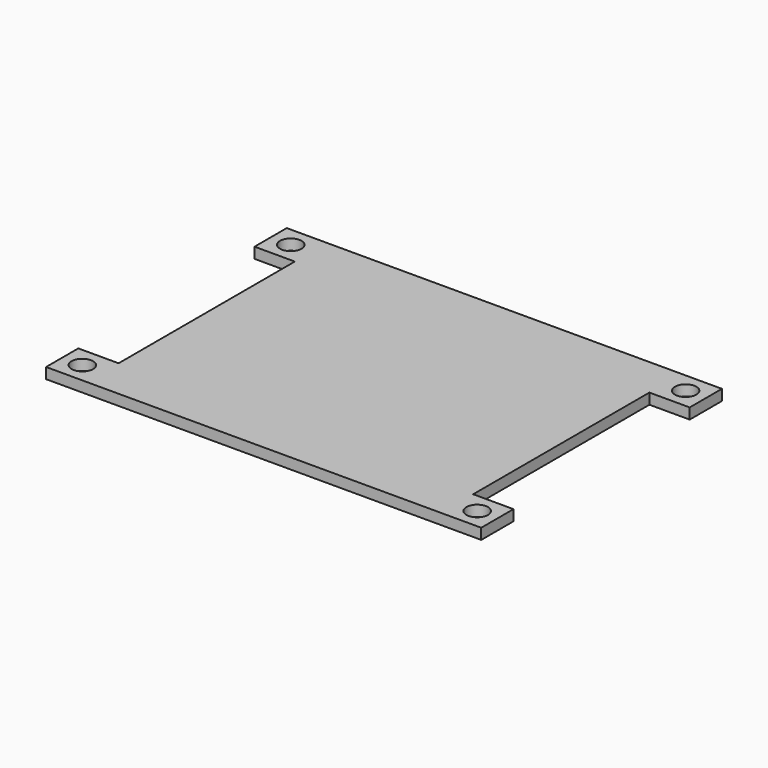
from build123d import *

# Parameters (mm, degrees)
F0_R     = 2
F1_DEPTH = 2


with BuildPart() as f1:
    # F0 (on Top) → F1 (new body)
    with BuildSketch(Plane.XY):
        Polygon((-33, 20.5), (-33, 0), (-33, -20.5), (-40.5, -20.5), (-40.5, -28), (40.5, -28), (40.5, -20.5), (33, -20.5), (33, 0), (33, 20.5), (40.5, 20.5), (40.5, 28), (-40.5, 28), (-40.5, 20.5), align=None)
        with Locations((-36.75, -24.25)):
            Circle(F0_R, mode=Mode.SUBTRACT)
        with Locations((36.75, -24.25)):
            Circle(F0_R, mode=Mode.SUBTRACT)
        with Locations((-36.75, 24.25)):
            Circle(F0_R, mode=Mode.SUBTRACT)
        with Locations((36.75, 24.25)):
            Circle(F0_R, mode=Mode.SUBTRACT)
    extrude(amount=F1_DEPTH)


solid = f1.part
